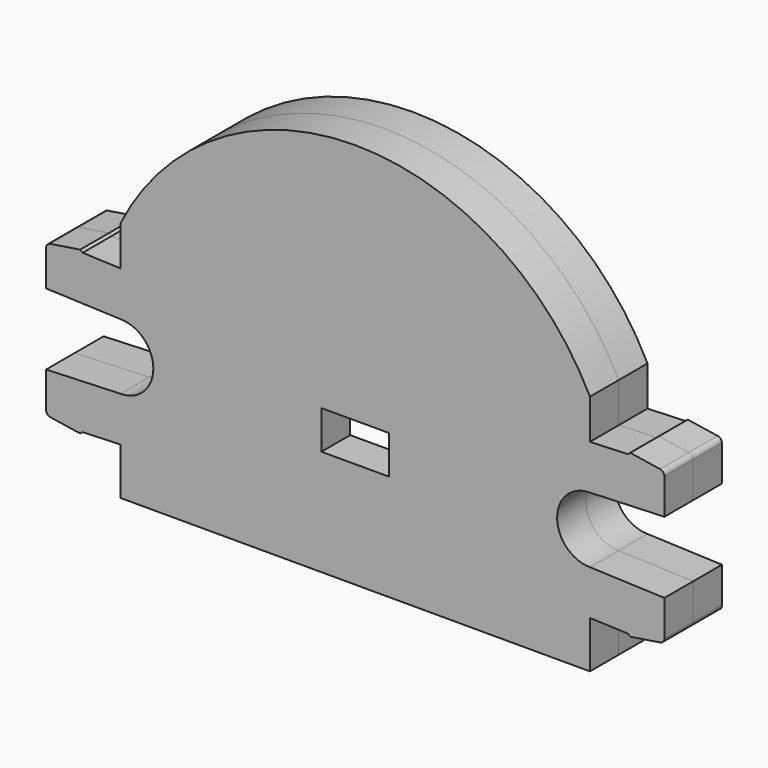
from build123d import *

# Parameters (mm, degrees)
F0_W     = 5.45
F0_H     = 3.1
F1_DEPTH = 2.9
F3_DEPTH = 2.9


with BuildPart() as f1:
    # F0 (on Front) → F1 (new body)
    with BuildSketch(Plane.XZ):
        with BuildLine():
            Line((-18.925, 3.794204), (-18.925, 0))
            Line((-18.925, 0), (18.925, 0))
            Line((18.925, 0), (18.925, 3.794204))
            Line((18.925, 3.794204), (21.975, 3.677))
            Line((21.975, 3.677), (22.175, 3.519204))
            Line((22.175, 3.519204), (24.586093, 3.891828))
            ThreePointArc((24.586093, 3.891828), (24.828675, 4.026786), (24.925, 4.287135))
            Line((24.925, 4.287135), (24.925, 7.166296))
            Line((24.925, 7.166296), (18.925, 7.396861))
            ThreePointArc((18.925, 7.396861), (16.277657, 10.044204), (18.925, 12.691547))
            Line((18.925, 12.691547), (24.925, 12.922112))
            Line((24.925, 12.922112), (24.925, 15.801274))
            ThreePointArc((24.925, 15.801274), (24.828675, 16.061622), (24.586093, 16.196581))
            Line((24.586093, 16.196581), (22.175, 16.569204))
            Line((22.175, 16.569204), (21.975, 16.411408))
            Line((21.975, 16.411408), (18.925, 16.294204))
            Line((18.925, 16.294204), (18.925, 19.5))
            ThreePointArc((18.925, 19.5), (0, 31.2), (-18.925, 19.5))
            Line((-18.925, 19.5), (-18.925, 16.294204))
            Line((-18.925, 16.294204), (-21.975, 16.411408))
            Line((-21.975, 16.411408), (-22.175, 16.569204))
            Line((-22.175, 16.569204), (-24.586093, 16.196581))
            ThreePointArc((-24.586093, 16.196581), (-24.828675, 16.061622), (-24.925, 15.801274))
            Line((-24.925, 15.801274), (-24.925, 12.922112))
            Line((-24.925, 12.922112), (-18.925, 12.691547))
            ThreePointArc((-18.925, 12.691547), (-16.277657, 10.044204), (-18.925, 7.396861))
            Line((-18.925, 7.396861), (-24.925, 7.166296))
            Line((-24.925, 7.166296), (-24.925, 4.287135))
            ThreePointArc((-24.925, 4.287135), (-24.828675, 4.026786), (-24.586093, 3.891828))
            Line((-24.586093, 3.891828), (-22.175, 3.519204))
            Line((-22.175, 3.519204), (-21.975, 3.677))
            Line((-21.975, 3.677), (-18.925, 3.794204))
        make_face()
        with Locations((0, 10.1)):
            Rectangle(F0_W, F0_H, mode=Mode.SUBTRACT)
    extrude(amount=F1_DEPTH)


with BuildPart() as f3:
    # F2 (on Front) → F3 (new body)
    with BuildSketch(Plane.XZ):
        with BuildLine():
            Line((18.925, 16.294204), (18.925, 19.5))
            ThreePointArc((18.925, 19.5), (0, 31.2), (-18.925, 19.5))
            Line((-18.925, 19.5), (-18.925, 16.294204))
            Line((-18.925, 16.294204), (-21.975, 16.411408))
            Line((-21.975, 16.411408), (-22.175, 16.569204))
            Line((-22.175, 16.569204), (-24.586093, 16.196581))
            ThreePointArc((-24.586093, 16.196581), (-24.828675, 16.061622), (-24.925, 15.801274))
            Line((-24.925, 15.801274), (-24.925, 12.922112))
            Line((-24.925, 12.922112), (-18.925, 12.691547))
            ThreePointArc((-18.925, 12.691547), (-16.277657, 10.044204), (-18.925, 7.396861))
            Line((-18.925, 7.396861), (-24.925, 7.166296))
            Line((-24.925, 7.166296), (-24.925, 4.287135))
            ThreePointArc((-24.925, 4.287135), (-24.828675, 4.026786), (-24.586093, 3.891828))
            Line((-24.586093, 3.891828), (-22.175, 3.519204))
            Line((-22.175, 3.519204), (-21.975, 3.677))
            Line((-21.975, 3.677), (-18.925, 3.794204))
            Line((-18.925, 3.794204), (-18.925, 0))
            Line((-18.925, 0), (-9.2, 0))
            Line((-9.2, 0), (-9.2, 4))
            ThreePointArc((-9.2, 4), (-11.169316, 11.819704), (-7.4, 18.948394))
            Line((-7.4, 18.948394), (-5.15, 18.948394))
            ThreePointArc((-5.15, 18.948394), (0, 21.7), (5.15, 18.948394))
            Line((5.15, 18.948394), (7.4, 18.948394))
            ThreePointArc((7.4, 18.948394), (11.169316, 11.819704), (9.2, 4))
            Line((9.2, 4), (9.2, 0))
            Line((9.2, 0), (18.925, 0))
            Line((18.925, 0), (18.925, 3.794204))
            Line((18.925, 3.794204), (21.975, 3.677))
            Line((21.975, 3.677), (22.175, 3.519204))
            Line((22.175, 3.519204), (24.586093, 3.891828))
            ThreePointArc((24.586093, 3.891828), (24.828675, 4.026786), (24.925, 4.287135))
            Line((24.925, 4.287135), (24.925, 7.166296))
            Line((24.925, 7.166296), (18.925, 7.396861))
            ThreePointArc((18.925, 7.396861), (16.277657, 10.044204), (18.925, 12.691547))
            Line((18.925, 12.691547), (24.925, 12.922112))
            Line((24.925, 12.922112), (24.925, 15.801274))
            ThreePointArc((24.925, 15.801274), (24.828675, 16.061622), (24.586093, 16.196581))
            Line((24.586093, 16.196581), (22.175, 16.569204))
            Line((22.175, 16.569204), (21.975, 16.411408))
            Line((21.975, 16.411408), (18.925, 16.294204))
        make_face()
    extrude(amount=-F3_DEPTH)


solid = Compound([f1.part, f3.part])
